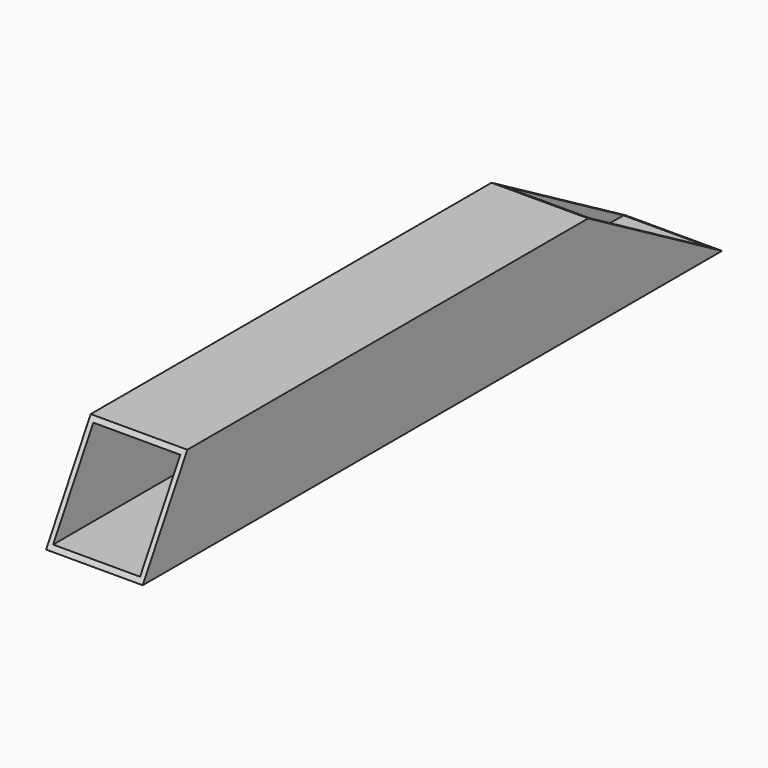
from build123d import *

# Parameters (mm, degrees)
F0_W     = 100
F0_H     = 100
F0_W_2   = 90
F0_H_2   = 90
F1_DEPTH = 750
F3_DEPTH = 100.001
F5_DEPTH = 100.001


with BuildPart() as f1:
    # F0 (on Front) → F1 (new body)
    with BuildSketch(Plane.XZ):
        with Locations((50, 50)):
            Rectangle(F0_W, F0_H)
        with Locations((50, 50)):
            Rectangle(F0_W_2, F0_H_2, mode=Mode.SUBTRACT)
    extrude(amount=F1_DEPTH)

    # F2 (on face) → F3 (cut, through all)
    with BuildSketch(Plane.YZ.offset(100)):
        Polygon((-679.944465, 120), (-755, 120), (-755, -10), align=None)
    extrude(amount=-F3_DEPTH, mode=Mode.SUBTRACT)

    # F4 (on face) → F5 (cut, through all)
    with BuildSketch(Plane.YZ.offset(100)):
        Polygon((0.141252, 114.146464), (-197.538123, 114.146464), (0.141252, 0.016223), align=None)
    extrude(amount=-F5_DEPTH, mode=Mode.SUBTRACT)


solid = f1.part
